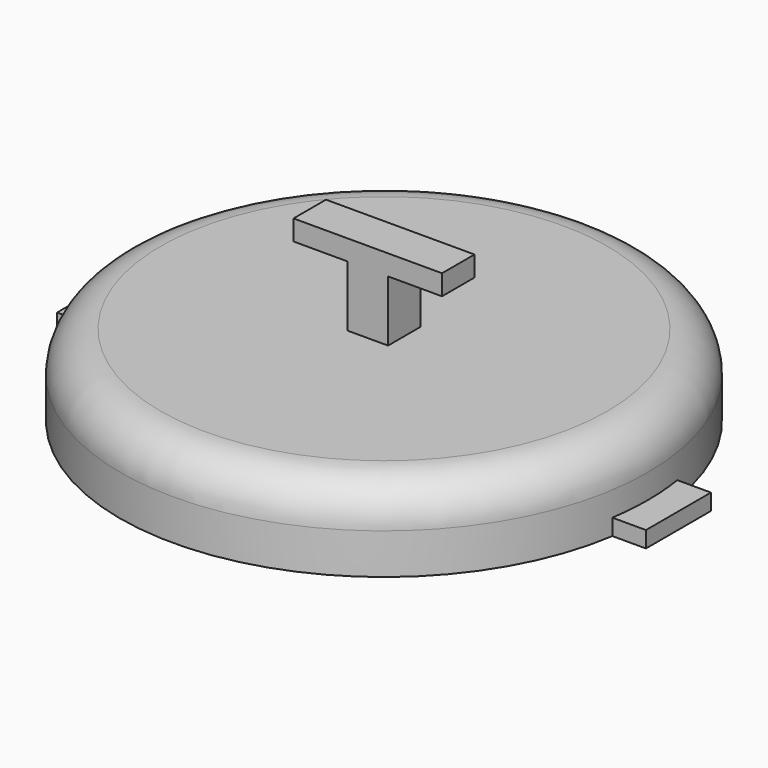
from build123d import *

# Parameters (mm, degrees)
F0_R     = 33.02
F1_DEPTH = 10.16
F2_R     = 5.08
F3_W     = 5.08
F3_H     = 5.08
F4_DEPTH = 7.62
F5_W     = 18.572674
F5_H     = 5.08
F6_DEPTH = 2.54
F7_W     = 73.66
F7_H     = 10.16
F8_DEPTH = 2.032


with BuildPart() as f1:
    # F0 (on Top) → F1 (new body)
    with BuildSketch(Plane.XY):
        Circle(F0_R)
    extrude(amount=F1_DEPTH)

    # F2
    f2_edges = [f1.edges().sort_by_distance(p)[0] for p in [
        (-33.02, 0, 10.16),
    ]]
    fillet(f2_edges, radius=F2_R)

    # F3 (on face) → F4 (join)
    with BuildSketch(Plane.XY.offset(10.16)):
        Rectangle(F3_W, F3_H)
    extrude(amount=F4_DEPTH)

    # F5 (on face) → F6 (join)
    with BuildSketch(Plane.XY.offset(17.78)):
        Rectangle(F5_W, F5_H)
    extrude(amount=F6_DEPTH)

    # F7 (on Top) → F8 (join)
    with BuildSketch(Plane.XY):
        Rectangle(F7_W, F7_H)
    extrude(amount=F8_DEPTH)


solid = f1.part
